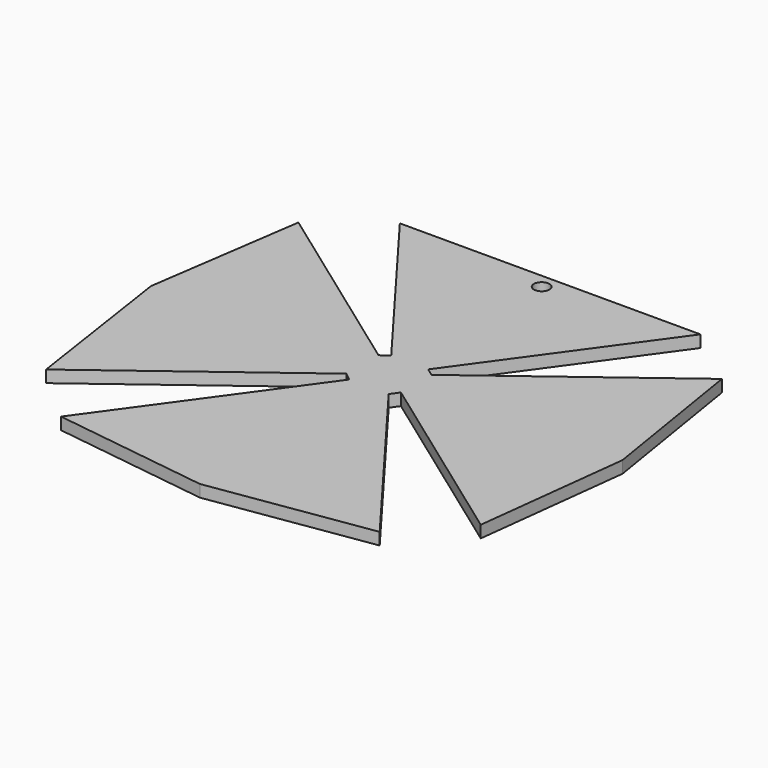
from build123d import *

# Parameters (mm, degrees)
F1_DEPTH = 1.27
F2_R     = 0.817287
F3_DEPTH = 12.7


with BuildPart() as f1:
    # F0 (on Top) → F1 (new body)
    with BuildSketch(Plane.XY):
        Polygon((2.120686, -2.821234), (0, -2.821234), (0, -25.078306), (16.910204, -22.496327), align=None)
        Polygon((-1.991502, 2.649376), (0, 2.649376), (0, 21.549277), (-16.198318, 21.549277), align=None)
        Polygon((0, 21.549277), (0, 2.649376), (1.909298, 2.649376), (15.529687, 21.549277), align=None)
        Polygon((24.537329, 0), (2.733955, 0), (2.733955, -1.97025), (22.622143, -16.302859), align=None)
        Polygon((2.733955, 2.055079), (2.733955, 0), (24.537329, 0), (21.880006, 16.446924), align=None)
        Polygon((-25.219401, 0), (-2.87027, 0), (-2.87027, 2.068487), (-22.82205, 16.446924), align=None)
        Polygon((-2.87027, -2.157545), (-2.87027, 0), (-25.219401, 0), (-22.667898, -17.039172), align=None)
        Polygon((0, -25.078306), (0, -2.821234), (-2.033148, -2.821234), (-16.454118, -22.832033), align=None)
        Polygon((2.733955, 0), (0, 0), (0, -2.821234), (2.120686, -2.821234), (2.733955, -1.97025), align=None)
        Polygon((0, 2.649376), (0, 0), (2.733955, 0), (2.733955, 2.055079), (1.909298, 2.649376), align=None)
        Polygon((-2.87027, 0), (0, 0), (0, 2.649376), (-1.991502, 2.649376), (-2.87027, 2.068487), align=None)
        Polygon((0, -2.821234), (0, 0), (-2.87027, 0), (-2.87027, -2.157545), (-2.033148, -2.821234), align=None)
    extrude(amount=F1_DEPTH)

    # F2 (on face) → F3 (cut)
    with BuildSketch(Plane.XY.offset(1.27)):
        with Locations((0, 20.010149)):
            Circle(F2_R)
    extrude(amount=-F3_DEPTH, mode=Mode.SUBTRACT)


solid = f1.part
